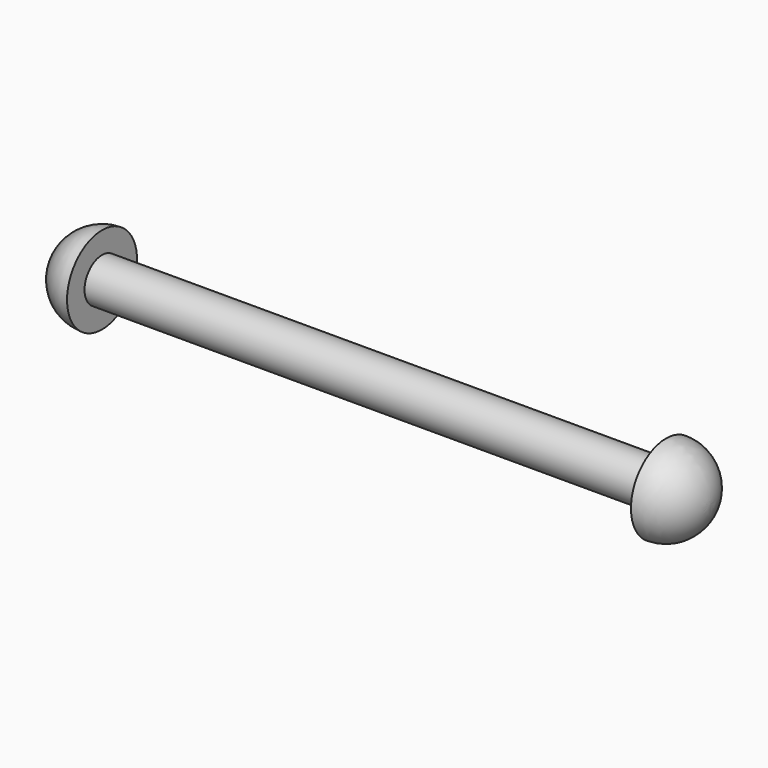
from build123d import *


with BuildPart() as f1:
    # F0 (on Front) → F1 (revolve)
    with BuildSketch(Plane.XZ):
        with BuildLine():
            Line((-42.885936, 2.8575), (-42.885936, 5.715))
            ThreePointArc((-42.885936, 5.715), (-46.927052, 4.041115), (-48.600936, 0))
            Line((-48.600936, 0), (-42.885936, 0))
            Line((-42.885936, 0), (-37.170936, 0))
            Line((-37.170936, 0), (30.774064, 0))
            Line((30.774064, 0), (36.489064, 0))
            ThreePointArc((36.489064, 0), (34.815179, 4.041115), (30.774064, 5.715))
            Line((30.774064, 5.715), (30.774064, 2.8575))
            Line((30.774064, 2.8575), (-42.885936, 2.8575))
        make_face()
    revolve(axis=Axis((-3.198436, 0, 0), (1, 0, 0)))


solid = f1.part
